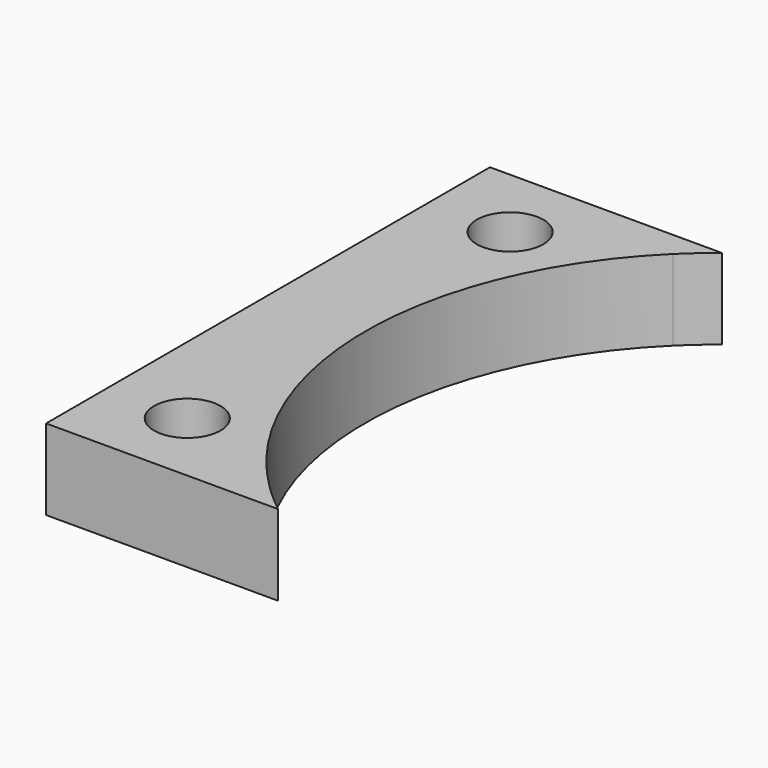
from build123d import *

# Parameters (mm, degrees)
F1_DEPTH = 8
F3_D     = 6.6


with BuildPart() as f1:
    # F0 (on Top) → F1 (new body)
    with BuildSketch(Plane.XY):
        with BuildLine():
            ThreePointArc((-24.494897, -25), (-35, 0), (-24.494897, 25))
            ThreePointArc((-24.494897, 25), (-23.106602, 26.288495), (-21.650635, 27.5))
            Line((-21.650635, 27.5), (-44.650635, 27.5))
            Line((-44.650635, 27.5), (-44.650635, -27.5))
            Line((-44.650635, -27.5), (-21.650635, -27.5))
            ThreePointArc((-21.650635, -27.5), (-23.106602, -26.288495), (-24.494897, -25))
        make_face()
    extrude(amount=F1_DEPTH)

    # F3 (through all)
    with Locations(Plane(origin=(0, 0, 0), x_dir=(1, 0, 0), z_dir=(0, 0, -1))):
        with Locations((-36.650635, 20), (-36.650635, -20)):
            Hole(F3_D / 2)


solid = f1.part
